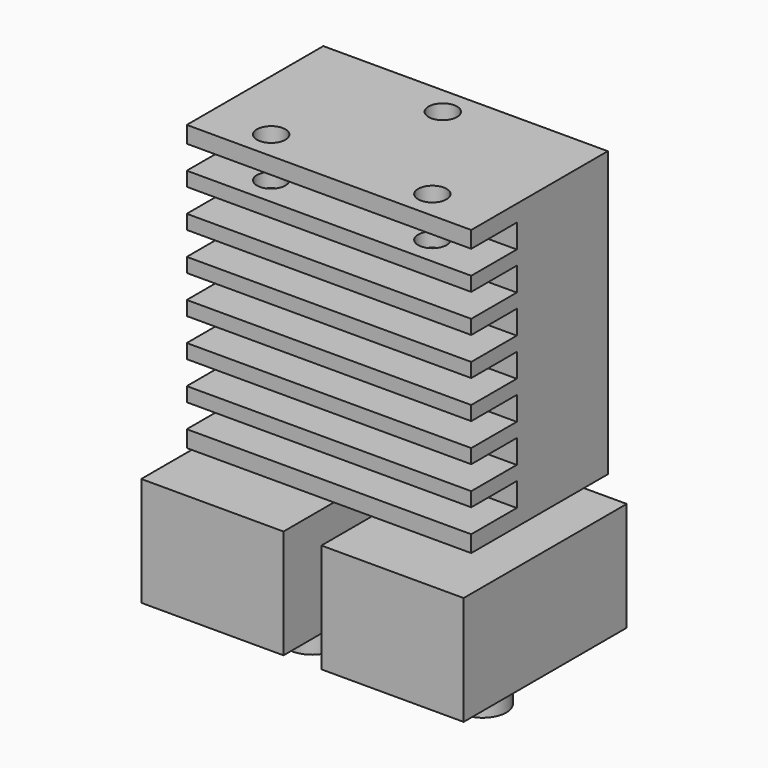
from build123d import *

# Parameters (mm, degrees)
F0_W      = 30
F0_H      = 30
F1_DEPTH  = 9
F2_R      = 2.5
F3_DEPTH  = 19.6
F4_W      = 6
F4_H      = 2.5
F5_DEPTH  = 30.001
F6_R      = 1.5
F7_DEPTH  = 8
F8_R      = 1.5
F9_DEPTH  = 7.5
F11_W     = 15
F11_H     = 21.5
F12_DEPTH = 11.5


with BuildPart() as f1:
    # F0 (on Front) → F1 (new body, symmetric)
    with BuildSketch(Plane.XZ):
        Rectangle(F0_W, F0_H)
    extrude(amount=F1_DEPTH, both=True)

    # F2 (on face) → F3 (join)
    with BuildSketch(Plane(origin=(0, 0, -15), x_dir=(1, 0, 0), z_dir=(0, 0, -1))):
        with Locations((-9, 0)):
            Circle(F2_R)
        with Locations((9, 0)):
            Circle(F2_R)
    extrude(amount=F3_DEPTH)

    # F4 (on face) → F5 (cut, through all)
    with BuildSketch(Plane(origin=(-15, 0, 0), x_dir=(0, -1, 0), z_dir=(-1, 0, 0))):
        with Locations((6, 12)):
            Rectangle(F4_W, F4_H)
        with Locations((6, 8)):
            Rectangle(F4_W, F4_H)
        with Locations((6, 4)):
            Rectangle(F4_W, F4_H)
        with Locations((6, 0)):
            Rectangle(F4_W, F4_H)
        with Locations((6, -4)):
            Rectangle(F4_W, F4_H)
        with Locations((6, -8)):
            Rectangle(F4_W, F4_H)
        with Locations((6, -12)):
            Rectangle(F4_W, F4_H)
    extrude(amount=-F5_DEPTH, mode=Mode.SUBTRACT)

    # F6 (on face) → F7 (cut)
    with BuildSketch(Plane(origin=(0, 9, 0), x_dir=(-1, 0, 0), z_dir=(0, 1, 0))):
        with Locations((0, -5)):
            Circle(F6_R)
        with Locations((-4.5, 5)):
            Circle(F6_R)
        with Locations((4.5, 5)):
            Circle(F6_R)
    extrude(amount=-F7_DEPTH, mode=Mode.SUBTRACT)

    # F8 (on face) → F9 (cut)
    with BuildSketch(Plane.XY.offset(15)):
        with Locations((0, 6)):
            Circle(F8_R)
        with Locations((8.5, -6)):
            Circle(F8_R)
        with Locations((-8.5, -6)):
            Circle(F8_R)
    extrude(amount=-F9_DEPTH, mode=Mode.SUBTRACT)

    # F11 (on offset) → F12 (join)
    with BuildSketch(Plane(origin=(0, 0, -17.1), x_dir=(1, 0, 0), z_dir=(0, 0, -1))):
        with Locations((-9.5, 1.75)):
            Rectangle(F11_W, F11_H)
        with Locations((9.5, 1.75)):
            Rectangle(F11_W, F11_H)
    extrude(amount=F12_DEPTH)


solid = f1.part
